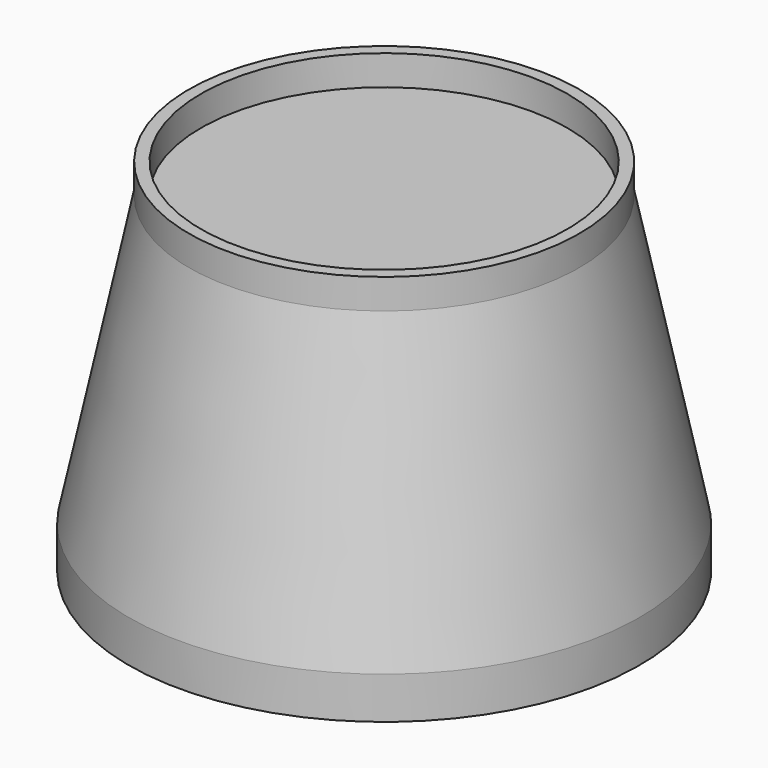
from build123d import *

# Parameters (mm, degrees)
F0_W = 2
F0_H = 5


with BuildPart() as f1:
    # F0 (on Right) → F1 (revolve)
    with BuildSketch(Plane.YZ):
        Polygon((0, 55), (0, 0), (42.5, 0), (42.5, 7), (32.5, 55), (30.5, 55), align=None)
        with Locations((31.5, 57.5)):
            Rectangle(F0_W, F0_H)
    revolve(axis=Axis((0, 0, 27.5), (0, 0, 1)))

    # F2 (on Right) → F3 (revolve, cut)
    with BuildSketch(Plane.YZ):
        Polygon((0.028088, 53.080703), (0.028088, -0.419297), (40.528088, -0.419297), (40.528088, 6.980703), (30.759966, 53.080703), align=None)
    revolve(axis=Axis((0, 0.028088, 26.330703), (0, 0, 1)), mode=Mode.SUBTRACT)


solid = f1.part
